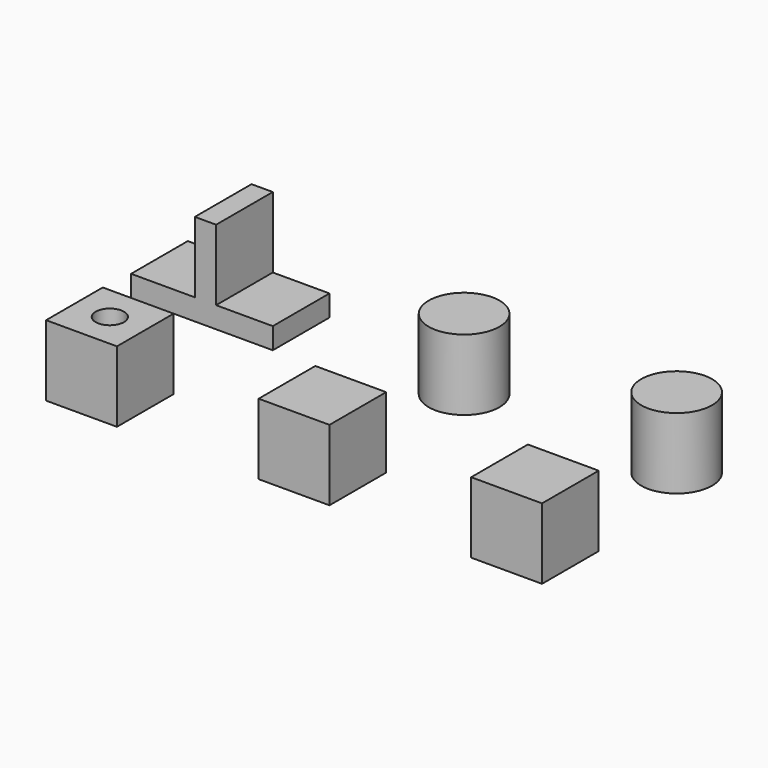
from build123d import *

# Parameters (mm, degrees)
BOX_W             = 10
BOX_H             = 10
BOX_DEPTH         = 10
BOX002_W          = 10
BOX002_H          = 10
BOX002_DEPTH      = 10
CYLINDER_R        = 2
CYLINDER_DEPTH    = 20
BOX001_W          = 10
BOX001_H          = 10
BOX001_DEPTH      = 10
CYLINDER001_R     = 5
CYLINDER001_DEPTH = 10
CYLINDER002_R     = 5
CYLINDER002_DEPTH = 10
BOX004_W          = 3
BOX004_H          = 10
BOX004_DEPTH      = 10
BOX003_W          = 20
BOX003_H          = 10
BOX003_DEPTH      = 3


with BuildPart() as box:
    # Box → Box (new body)
    with BuildSketch(Plane(origin=(60, 0, 0), x_dir=(1, 0, 0), z_dir=(0, 0, 1))):
        with Locations((5, 5)):
            Rectangle(BOX_W, BOX_H)
    extrude(amount=BOX_DEPTH)


with BuildPart() as box002:
    # Box002 → Box002 (new body)
    with BuildSketch(Plane(origin=(30, 0, 0), x_dir=(1, 0, 0), z_dir=(0, 0, 1))):
        with Locations((5, 5)):
            Rectangle(BOX002_W, BOX002_H)
    extrude(amount=BOX002_DEPTH)


with BuildPart() as cylinder:
    # Cylinder → Cylinder (new body)
    with BuildSketch(Plane(origin=(5, 5, -2), x_dir=(1, 0, 0), z_dir=(0, 0, 1))):
        Circle(CYLINDER_R)
    extrude(amount=CYLINDER_DEPTH)


with BuildPart() as cut:
    # Box001 → Box001 (new body)
    with BuildSketch(Plane.XY):
        with Locations((5, 5)):
            Rectangle(BOX001_W, BOX001_H)
    extrude(amount=BOX001_DEPTH)

    # Cut: cut Cylinder
    add(cylinder.part, mode=Mode.SUBTRACT)


with BuildPart() as cylinder001:
    # Cylinder001 → Cylinder001 (new body)
    with BuildSketch(Plane(origin=(65, 30, 0), x_dir=(1, 0, 0), z_dir=(0, 0, 1))):
        Circle(CYLINDER001_R)
    extrude(amount=CYLINDER001_DEPTH)


with BuildPart() as cylinder002:
    # Cylinder002 → Cylinder002 (new body)
    with BuildSketch(Plane(origin=(35, 30, 0), x_dir=(1, 0, 0), z_dir=(0, 0, 1))):
        Circle(CYLINDER002_R)
    extrude(amount=CYLINDER002_DEPTH)


with BuildPart() as box004:
    # Box004 → Box004 (new body)
    with BuildSketch(Plane(origin=(1, 25, 3), x_dir=(1, 0, 0), z_dir=(0, 0, 1))):
        with Locations((1.5, 5)):
            Rectangle(BOX004_W, BOX004_H)
    extrude(amount=BOX004_DEPTH)


with BuildPart() as fusion:
    # Box003 → Box003 (new body)
    with BuildSketch(Plane(origin=(-8, 25, 0), x_dir=(1, 0, 0), z_dir=(0, 0, 1))):
        with Locations((10, 5)):
            Rectangle(BOX003_W, BOX003_H)
    extrude(amount=BOX003_DEPTH)

    # Fusion: union Box004
    add(box004.part)


solid = Compound([box.part, box002.part, cut.part, cylinder001.part, cylinder002.part, fusion.part])
